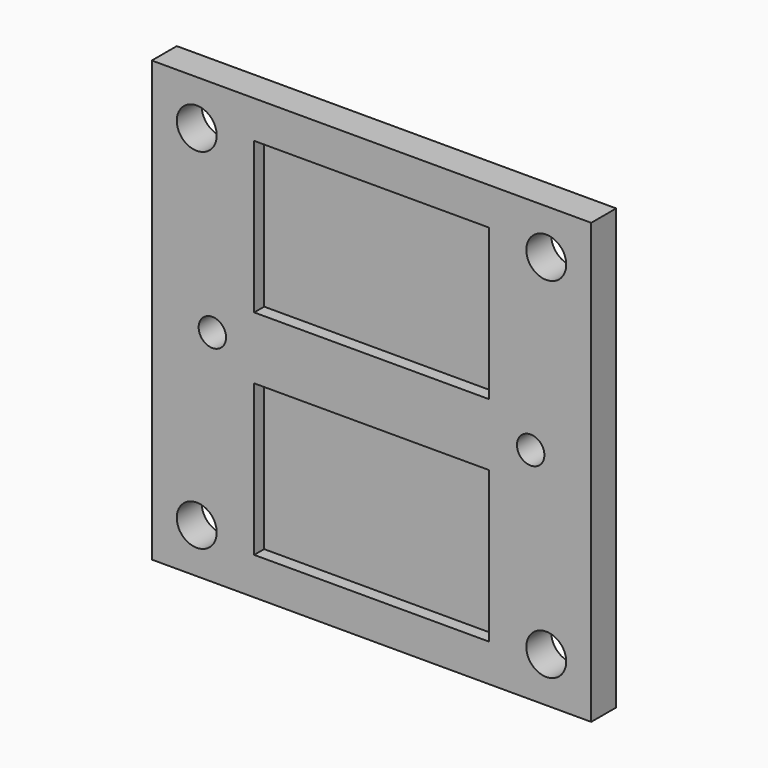
from build123d import *

# Parameters (mm, degrees)
F0_W     = 35.2
F0_H     = 35.2
F0_R     = 1.6
F0_R_2   = 1.1
F1_DEPTH = 1.5
F2_R     = 1.6
F2_W     = 18.8
F2_H     = 12.1
F2_R_2   = 1.1
F3_DEPTH = 1


with BuildPart() as f1:
    # F0 (on Front) → F1 (new body)
    with BuildSketch(Plane.XZ):
        Rectangle(F0_W, F0_H)
        with Locations((-14, -14)):
            Circle(F0_R, mode=Mode.SUBTRACT)
        with Locations((14, -14)):
            Circle(F0_R, mode=Mode.SUBTRACT)
        with Locations((-12.75, 0)):
            Circle(F0_R_2, mode=Mode.SUBTRACT)
        with Locations((-14, 14)):
            Circle(F0_R, mode=Mode.SUBTRACT)
        with Locations((12.75, 0)):
            Circle(F0_R_2, mode=Mode.SUBTRACT)
        with Locations((14, 14)):
            Circle(F0_R, mode=Mode.SUBTRACT)
    extrude(amount=F1_DEPTH)

    # F2 (on face) → F3 (join)
    with BuildSketch(Plane.XZ.offset(1.5)):
        Polygon((-17.6, 17.6), (-17.6, 2.5), (-17.6, -2.5), (-17.6, -17.6), (-9.4, -17.6), (9.4, -17.6), (17.6, -17.6), (17.6, -2.5), (17.6, 2.5), (17.6, 17.6), (9.4, 17.6), (-9.4, 17.6), align=None)
        with Locations((-14, -14)):
            Circle(F2_R, mode=Mode.SUBTRACT)
        with Locations((14, -14)):
            Circle(F2_R, mode=Mode.SUBTRACT)
        with Locations((0, -8.55)):
            Rectangle(F2_W, F2_H, mode=Mode.SUBTRACT)
        with Locations((-12.75, 0)):
            Circle(F2_R_2, mode=Mode.SUBTRACT)
        with Locations((-14, 14)):
            Circle(F2_R, mode=Mode.SUBTRACT)
        with Locations((0, 8.55)):
            Rectangle(F2_W, F2_H, mode=Mode.SUBTRACT)
        with Locations((12.75, 0)):
            Circle(F2_R_2, mode=Mode.SUBTRACT)
        with Locations((14, 14)):
            Circle(F2_R, mode=Mode.SUBTRACT)
    extrude(amount=F3_DEPTH)


solid = f1.part
